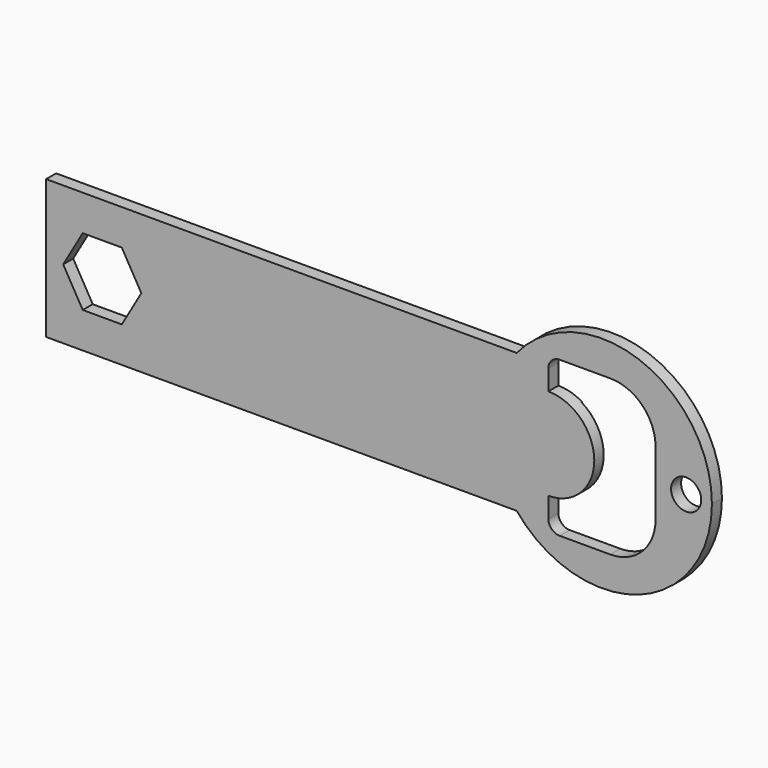
from build123d import *

# Parameters (mm, degrees)
F2_DEPTH  = 2.286
F4_DEPTH  = 2.286
F5_R      = 2.0707192567
F7_R      = 8.2702748321
F8_R      = 2.754363365
F9_DEPTH  = 25.4
F11_DEPTH = 0.127
F13_DEPTH = 25.4


with BuildPart() as f2:
    # F0 (on Front) → F2 (new body)
    with BuildSketch(Plane.XZ):
        with BuildLine():
            Line((-50.8, -12.7), (35.2199618575, -12.7))
            ThreePointArc((35.2199618575, -12.7), (30.6995624794, 0), (35.2199618575, 12.7))
            Line((35.2199618575, 12.7), (-50.8, 12.7))
            Line((-50.8, 12.7), (-50.8, -12.7))
        make_face()
        with BuildLine():
            Line((41.0022673368, -14.1657050699), (41.0022673368, -12.7))
            Line((41.0022673368, -12.7), (35.2199618575, -12.7))
            ThreePointArc((35.2199618575, -12.7), (57.5402524162, -18.9366466379), (70.9004375206, 0))
            ThreePointArc((70.9004375206, 0), (57.5402524162, 18.9366466379), (35.2199618575, 12.7))
            Line((35.2199618575, 12.7), (41.0022673368, 12.7))
            Line((41.0022673368, 12.7), (41.0022673368, 14.1657050699))
            Line((41.0022673368, 14.1657050699), (60.5977326632, 14.1657050699))
            Line((60.5977326632, 14.1657050699), (60.5977326632, -14.1657050699))
            Line((60.5977326632, -14.1657050699), (41.0022673368, -14.1657050699))
        make_face()
        with BuildLine():
            Line((35.2199618575, -12.7), (41.0022673368, -12.7))
            Line((41.0022673368, -12.7), (41.0022673368, 12.7))
            Line((41.0022673368, 12.7), (35.2199618575, 12.7))
            ThreePointArc((35.2199618575, 12.7), (30.6995624794, 0), (35.2199618575, -12.7))
        make_face()
    extrude(amount=F2_DEPTH)

    # F3 (on face) → F4 (join)
    with BuildSketch(Plane.XZ.offset(2.286)):
        with BuildLine():
            Line((41.0022673368, 8.3944918588), (41.0022673368, -8.3944918588))
            ThreePointArc((41.0022673368, -8.3944918588), (49.3967591956, 0), (41.0022673368, 8.3944918588))
        make_face()
    extrude(amount=-F4_DEPTH)

    # F5
    f5_edges = [f2.edges().sort_by_distance(p)[0] for p in [
        (41.002267, -1.143, 14.165705),
        (41.002267, -1.143, -14.165705),
    ]]
    fillet(f5_edges, radius=F5_R)

    # F7
    f7_edges = [f2.edges().sort_by_distance(p)[0] for p in [
        (60.597733, -1.143, -14.165705),
        (60.597733, -1.143, 14.165705),
    ]]
    fillet(f7_edges, radius=F7_R)

    # F8 (on face) → F9 (cut)
    with BuildSketch(Plane.XZ.offset(2.286)):
        with Locations((66.192291677, 0)):
            Circle(F8_R)
    extrude(amount=-F9_DEPTH, mode=Mode.SUBTRACT)

    # F10 (on face) → F11 (cut)
    with BuildSketch(Plane(origin=(0, 0, 0), x_dir=(-1, 0, 0), z_dir=(0, 1, 0))):
        with BuildLine():
            ThreePointArc((-45.3273802996, 7.1945042516), (-49.3967591956, 0), (-45.3273802996, -7.1945042516))
            Line((-45.3273802996, -7.1945042516), (-45.3273802996, 7.1945042516))
        make_face()
    extrude(amount=-F11_DEPTH, mode=Mode.SUBTRACT)

    # F12 (on face) → F13 (cut)
    with BuildSketch(Plane(origin=(0, 0, 0), x_dir=(-1, 0, 0), z_dir=(0, 1, 0))):
        Polygon((44.0986434706, 6.1829173937), (36.9592254273, 6.1829173937), (33.3895164056, 0), (36.9592254273, -6.1829173937), (44.0986434706, -6.1829173937), (47.6683524923, 0), align=None)
    extrude(amount=-F13_DEPTH, mode=Mode.SUBTRACT)


solid = f2.part
